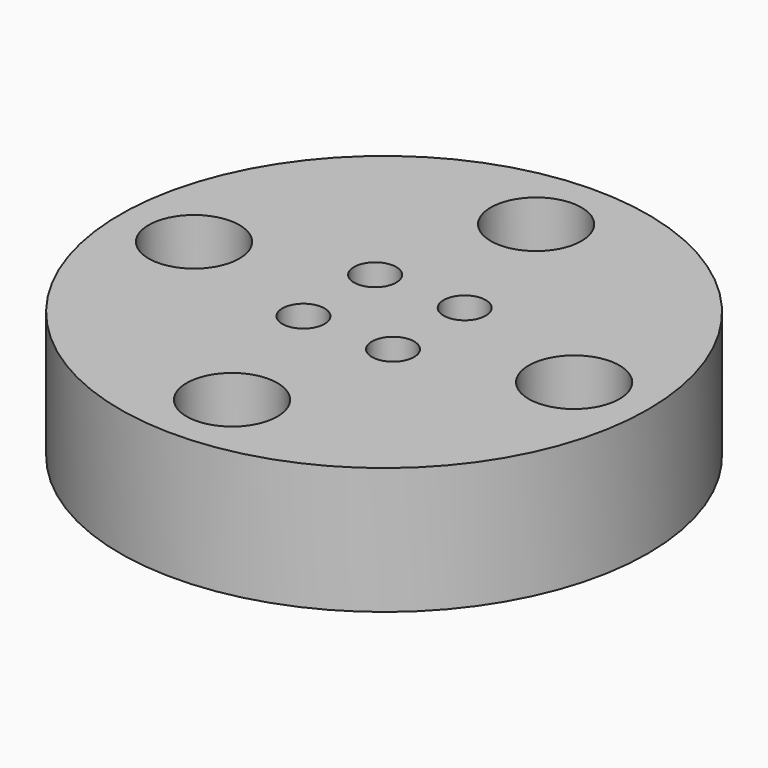
from build123d import *

# Parameters (mm, degrees)
F0_R     = 12.5
F0_R_2   = 1
F1_DEPTH = 6
F2_R     = 2.15
F3_DEPTH = 5


with BuildPart() as f1:
    # F0 (on Top) → F1 (new body)
    with BuildSketch(Plane.XY):
        Circle(F0_R)
        with Locations((-2.12132, -2.12132)):
            Circle(F0_R_2, mode=Mode.SUBTRACT)
        with Locations((2.12132, -2.12132)):
            Circle(F0_R_2, mode=Mode.SUBTRACT)
        with Locations((-2.12132, 2.12132)):
            Circle(F0_R_2, mode=Mode.SUBTRACT)
        with Locations((2.12132, 2.12132)):
            Circle(F0_R_2, mode=Mode.SUBTRACT)
    extrude(amount=F1_DEPTH)

    # F2 (on face) → F3 (cut)
    with BuildSketch(Plane.XY.offset(6)):
        with BuildLine():
            ThreePointArc((11.15, 0), (9, 2.15), (6.85, 0))
            ThreePointArc((6.85, 0), (9, -2.15), (11.15, 0))
        make_face()
        with BuildLine():
            ThreePointArc((2.15, 9), (-1.52028, 10.52028), (0, 6.85))
            ThreePointArc((0, 6.85), (1.52028, 7.47972), (2.15, 9))
        make_face()
        with Locations((0, -9)):
            Circle(F2_R)
        with Locations((-9, 0)):
            Circle(F2_R)
    extrude(amount=-F3_DEPTH, mode=Mode.SUBTRACT)


solid = f1.part
